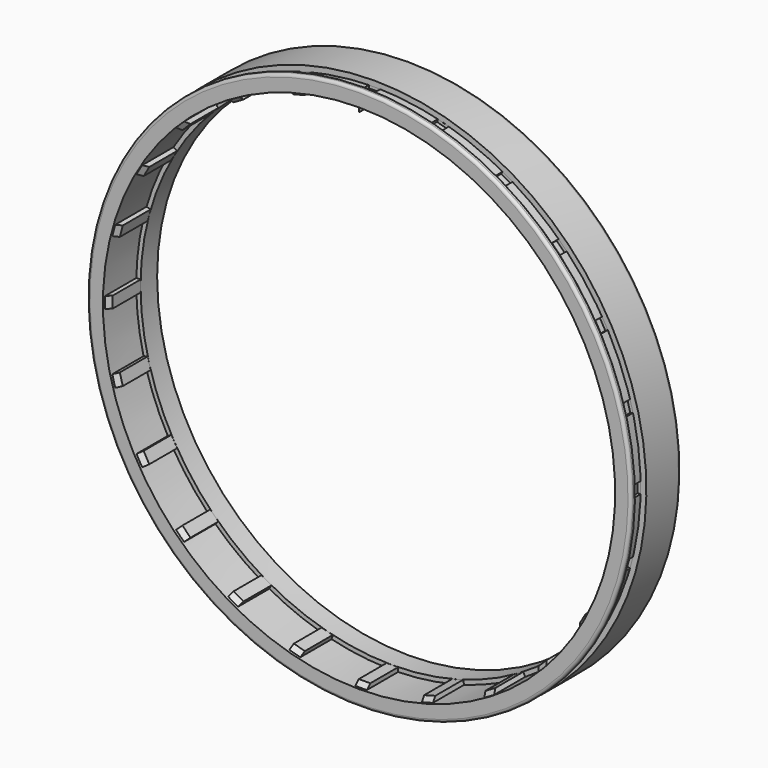
from build123d import *

# Parameters (mm, degrees)
POCKET_DEPTH            = 2
POLARPATTERN001_COUNT   = 24
SKETCH007_R             = 5.3
POCKET001_DEPTH         = 529.775193
POCKET001_DEPTH_BACK    = 529.775193
POLARPATTERN002_COUNT   = 3
SKETCH008_W             = 0.1
SKETCH008_H             = 100
POCKET002_DEPTH         = 18.251
POCKET002_DEPTH_BACK    = 18.251
POCKET004_DEPTH         = 2
POLARPATTERN008_COUNT   = 24
BODY008_PLACEMENT_ANGLE = 180


with BuildPart() as body005:
    # Sketch005 → Revolution (revolve)
    with BuildSketch(Plane.YZ):
        Polygon((-18.25, -85), (-18.25, -89.5), (-7.15, -89.5), (-3.65, -81), (-0.15, -81), (3.35, -89.5), (18.25, -89.5), (18.25, -85), (3.85, -85), (3.85, -72), (-7.65, -72), (-7.65, -85), align=None)
    revolve(axis=Axis((0, 0, 0), (0, 1, 0)))

    # Sketch006 → Pocket (cut, symmetric)
    with BuildSketch(Plane.YZ):
        Polygon((-20, 101.9), (-20, 88), (-9.9, 88), (-1.9, 96), (6.1, 88), (20, 88), (20, 101.9), align=None)
    pocket = extrude(amount=POCKET_DEPTH, both=True, mode=Mode.SUBTRACT)

    # PolarPattern001: Pocket ×24 about axis
    polarpattern001_axis = Axis((0, 0, 0), (0, 1, 0))
    for i in range(1, POLARPATTERN001_COUNT):
        add(pocket.rotate(polarpattern001_axis, i * 360 / POLARPATTERN001_COUNT), mode=Mode.SUBTRACT)

    # Sketch007 → Pocket001 (cut, two sides)
    with BuildSketch(Plane.XZ) as pocket001_sk:
        with Locations((0, -72.5)):
            Circle(SKETCH007_R)
        with BuildLine():
            ThreePointArc((60, 49.053542), (0, 77.5), (-60, 49.053542))
            Line((-60, 49.053542), (0, -60))
            Line((0, -60), (60, 49.053542))
        make_face()
    pocket001 = extrude(amount=-POCKET001_DEPTH, mode=Mode.SUBTRACT) + extrude(pocket001_sk.sketch, amount=POCKET001_DEPTH_BACK, mode=Mode.SUBTRACT)

    # PolarPattern002: Pocket001 ×3 about axis
    polarpattern002_axis = Axis((0, 0, 0), (0, -1, 0))
    for i in range(1, POLARPATTERN002_COUNT):
        add(pocket001.rotate(polarpattern002_axis, i * 360 / POLARPATTERN002_COUNT), mode=Mode.SUBTRACT)

    # Sketch008 → Pocket002 (cut, two sides)
    with BuildSketch(Plane.XZ) as pocket002_sk:
        with Locations((0, 50)):
            Rectangle(SKETCH008_W, SKETCH008_H)
    extrude(amount=-POCKET002_DEPTH, mode=Mode.SUBTRACT)
    extrude(pocket002_sk.sketch, amount=POCKET002_DEPTH_BACK, mode=Mode.SUBTRACT)


with BuildPart() as outer_rim_wide:
    # Sketch017 → Revolution004 (revolve)
    with BuildSketch(Plane.YZ):
        with BuildLine():
            Line((-25.5, -88), (-25.5, -94))
            ThreePointArc((-25.5, -94), (-25.207107, -94.707107), (-24.5, -95))
            Line((-24.5, -95), (-10.45, -95))
            Line((-10.45, -95), (-10.45, -93))
            Line((-10.45, -93), (-7.45, -93))
            Line((-5.45, -95), (-7.45, -93))
            Line((-5.45, -95), (-4.7, -95))
            ThreePointArc((-4.7, -95), (-3.992893, -94.707107), (-3.7, -94))
            Line((-3.7, -94), (-3.7, -88))
            Line((-3.7, -88), (-25.5, -88))
        make_face()
    revolve(axis=Axis((0, 0, 0), (0, 1, 0)))

    # Sketch018 → Pocket004 (cut, symmetric)
    with BuildSketch(Plane.YZ):
        Polygon((-10.44, -95), (-10.44, -92), (-8.46, -92), (-7.46, -93), (-7.46, -95), align=None)
    pocket004 = extrude(amount=POCKET004_DEPTH, both=True, mode=Mode.SUBTRACT)

    # PolarPattern008: Pocket004 ×24 about axis
    polarpattern008_axis = Axis((0, 0, 0), (0, 1, 0))
    for i in range(1, POLARPATTERN008_COUNT):
        add(pocket004.rotate(polarpattern008_axis, i * 360 / POLARPATTERN008_COUNT), mode=Mode.SUBTRACT)


with BuildPart() as outer_rim_wide_1:
    # Body008 placement: moved
    add(outer_rim_wide.part.rotate(Axis((0, 0, 0), (1, 0, 0)), BODY008_PLACEMENT_ANGLE))

    # Cut001: cut Body005
    add(body005.part, mode=Mode.SUBTRACT)


solid = outer_rim_wide_1.part
